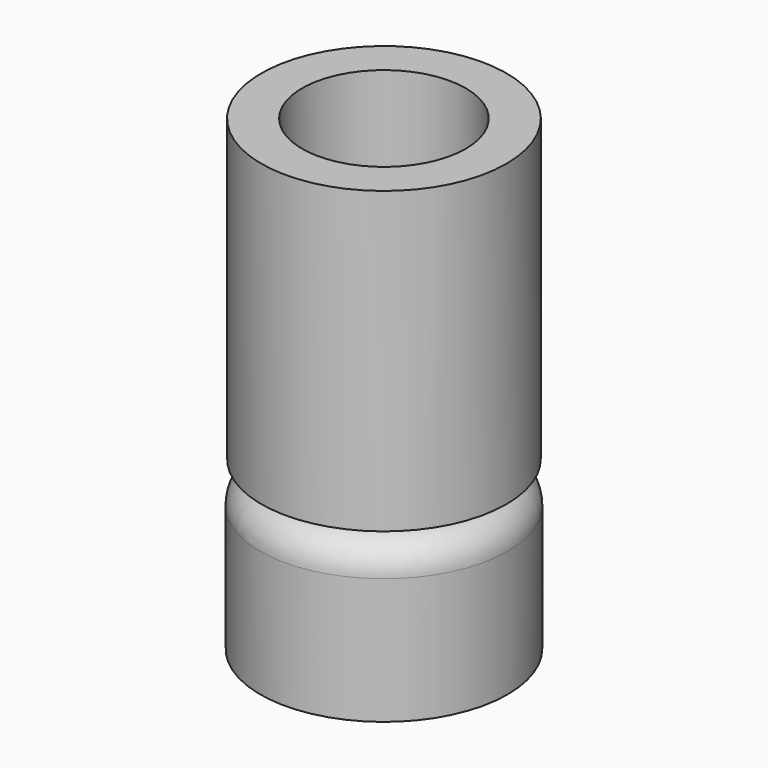
from build123d import *

# Parameters (mm, degrees)
F2_R = 4
F5_R = 4


with BuildPart() as f1:
    # F0 (on Front) → F1 (revolve)
    with BuildSketch(Plane.XZ):
        Polygon((10.7, 0), (10.7, -15), (15.7, -15), (15.7, 5), (5, 5), (5, 12), (6.5, 12), (5, 16), (6.5, 16), (4, 22.666667), (2, 22.666667), (2, 0), align=None)
    revolve(axis=Axis((0, 0, 19.526767), (0, 0, 1)))

    # F2
    f2_edges = [f1.edges().sort_by_distance(p)[0] for p in [
        (-5, 0, 5),
        (-15.7, 0, 5),
        (-10.7, 0, 0),
        (-2, 0, 0),
    ]]
    fillet(f2_edges, radius=F2_R)


with BuildPart() as f4:
    # F3 (on Front) → F4 (revolve)
    with BuildSketch(Plane.XZ):
        Polygon((2.75, 27.492773), (2.75, 23.492773), (4.710119, 23.492773), (7.5, 15.011535), (6.25, 15.011535), (7.5, 11.211535), (6.25, 11.211535), (6.25, 6.211535), (15.553954, 6.211535), (15.553954, 44.256214), (10.394393, 44.256214), (10.394393, 27.492773), align=None)
    revolve(axis=Axis((0, 0, 18.291627), (0, 0, -1)))

    # F5
    f5_edges = [f4.edges().sort_by_distance(p)[0] for p in [
        (-6.25, 0, 6.211535),
    ]]
    fillet(f5_edges, radius=F5_R)


solid = Compound([f1.part, f4.part])
